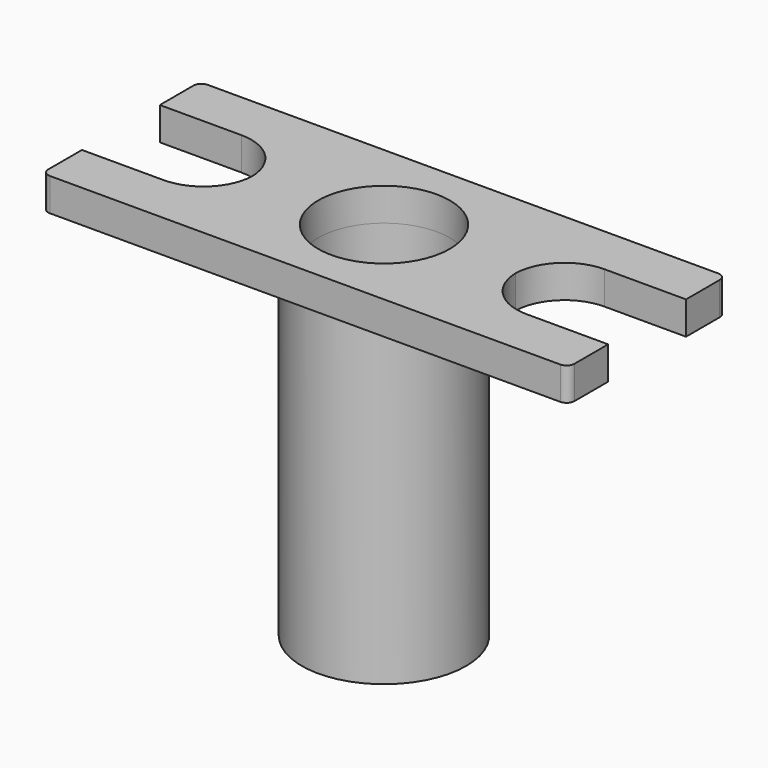
from build123d import *

# Parameters (mm, degrees)
F0_R     = 12.7
F1_DEPTH = 6.35
F2_R     = 15.875
F2_R_2   = 12.7
F3_DEPTH = 57.15
F4_R     = 15.875
F5_DEPTH = 6.35
F6_R     = 4.7625
F7_DEPTH = 69.851


with BuildPart() as f1:
    # F0 (on Top) → F1 (new body)
    with BuildSketch(Plane.XY):
        with BuildLine():
            ThreePointArc((50.8, 17.526), (50.3536307345, 18.6036307345), (49.276, 19.05))
            Line((49.276, 19.05), (-49.276, 19.05))
            ThreePointArc((-49.276, 19.05), (-50.3536307345, 18.6036307345), (-50.8, 17.526))
            Line((-50.8, 17.526), (-50.8, 9.398))
            Line((-50.8, 9.398), (-35.052, 9.398))
            ThreePointArc((-35.052, 9.398), (-28.3174066196, 6.6602140551), (-25.4033426841, 0))
            ThreePointArc((-25.4033426841, 0), (-28.3174066195, -6.6602140551), (-35.052, -9.398))
            Line((-35.052, -9.398), (-50.8, -9.398))
            Line((-50.8, -9.398), (-50.8, -17.526))
            ThreePointArc((-50.8, -17.526), (-50.3536307345, -18.6036307345), (-49.276, -19.05))
            Line((-49.276, -19.05), (49.276, -19.05))
            ThreePointArc((49.276, -19.05), (50.3536307345, -18.6036307345), (50.8, -17.526))
            Line((50.8, -17.526), (50.8, -9.398))
            Line((50.8, -9.398), (35.052, -9.398))
            ThreePointArc((35.052, -9.398), (28.3174066195, -6.6602140551), (25.4033426841, 0))
            ThreePointArc((25.4033426841, 0), (28.3174066196, 6.6602140551), (35.052, 9.398))
            Line((35.052, 9.398), (50.8, 9.398))
            Line((50.8, 9.398), (50.8, 17.526))
        make_face()
        with BuildLine():
            ThreePointArc((-25.4, -0.254), (-25.4008357072, -0.1269890029), (-25.4033426841, 0))
            ThreePointArc((-25.4033426841, 0), (-25.4008357072, 0.1269890029), (-25.4, 0.254))
            Line((-25.4, 0.254), (-25.4, 0))
            Line((-25.4, 0), (-25.4, -0.254))
        make_face(mode=Mode.SUBTRACT)
        Circle(F0_R, mode=Mode.SUBTRACT)
        with BuildLine():
            ThreePointArc((25.4, 0.254), (25.4008357072, 0.1269890029), (25.4033426841, 0))
            ThreePointArc((25.4033426841, 0), (25.4008357072, -0.1269890029), (25.4, -0.254))
            Line((25.4, -0.254), (25.4, 0.254))
        make_face(mode=Mode.SUBTRACT)
        with BuildLine():
            ThreePointArc((-25.4, 0.254), (-25.4008357072, 0.1269890029), (-25.4033426841, 0))
            ThreePointArc((-25.4033426841, 0), (-25.4008357072, -0.1269890029), (-25.4, -0.254))
            Line((-25.4, -0.254), (-25.4, 0))
            Line((-25.4, 0), (-25.4, 0.254))
        make_face()
        with BuildLine():
            ThreePointArc((25.4, -0.254), (25.4008357072, -0.1269890029), (25.4033426841, 0))
            ThreePointArc((25.4033426841, 0), (25.4008357072, 0.1269890029), (25.4, 0.254))
            Line((25.4, 0.254), (25.4, -0.254))
        make_face()
    extrude(amount=-F1_DEPTH)

    # F2 (on face) → F3 (join)
    with BuildSketch(Plane(origin=(0, 0, -6.35), x_dir=(1, 0, 0), z_dir=(0, 0, -1))):
        Circle(F2_R)
        Circle(F2_R_2, mode=Mode.SUBTRACT)
    extrude(amount=F3_DEPTH)

    # F4 (on face) → F5 (join)
    with BuildSketch(Plane(origin=(0, 0, -63.5), x_dir=(1, 0, 0), z_dir=(0, 0, -1))):
        Circle(F4_R)
    extrude(amount=F5_DEPTH)

    # F6 (on face) → F7 (cut, through all)
    with BuildSketch(Plane(origin=(0, 0, -69.85), x_dir=(1, 0, 0), z_dir=(0, 0, -1))):
        Circle(F6_R)
    extrude(amount=-F7_DEPTH, mode=Mode.SUBTRACT)


solid = f1.part
